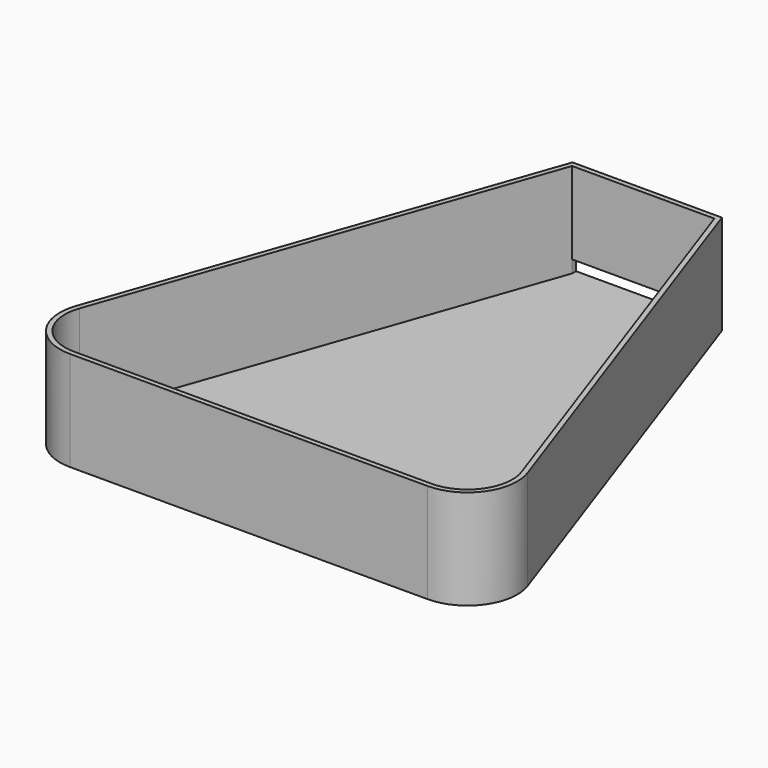
from build123d import *

# Parameters (mm, degrees)
F1_DEPTH = 20
F2_R     = 10
F3_T     = -1
F4_W     = 28.581038
F4_H     = 2.5
F5_DEPTH = 1


with BuildPart() as f1:
    # F0 (on Top) → F1 (new body)
    with BuildSketch(Plane.XY):
        Polygon((-15, 50), (-50, -50), (50, -50), (15, 50), align=None)
    extrude(amount=F1_DEPTH)

    # F2
    f2_edges = [f1.edges().sort_by_distance(p)[0] for p in [
        (-50, -50, 10),
        (50, -50, 10),
    ]]
    fillet(f2_edges, radius=F2_R)

    # F3
    f3_openings = [f1.faces().sort_by_distance(p)[0] for p in [
        (0, -8.435574, 20),
    ]]
    offset(amount=F3_T, openings=f3_openings)

    # F4 (on face) → F5 (cut, through all)
    with BuildSketch(Plane.XZ.offset(-49)):
        with Locations((0, 2.25)):
            Rectangle(F4_W, F4_H)
    extrude(amount=-F5_DEPTH, mode=Mode.SUBTRACT)


solid = f1.part
